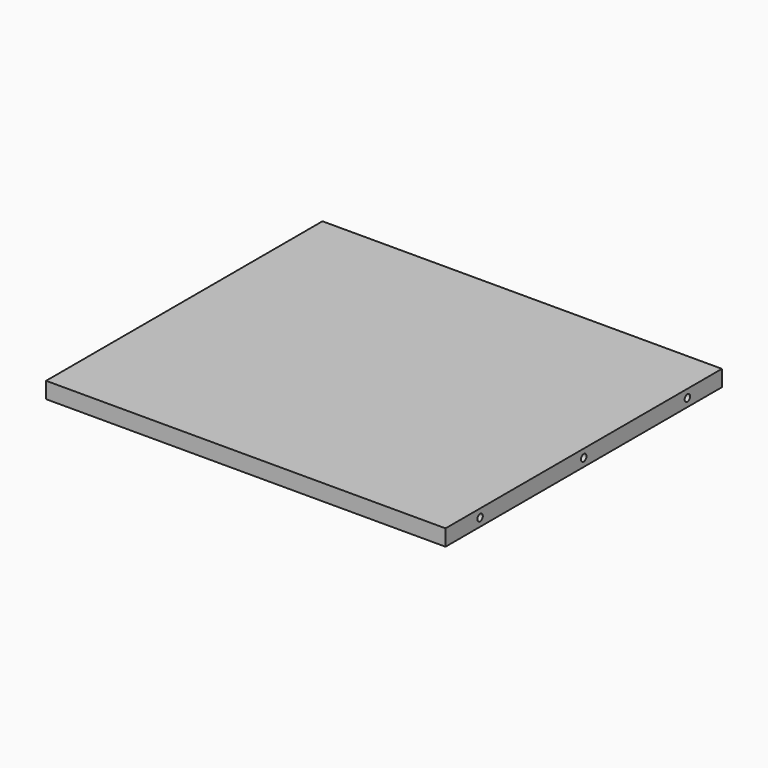
from build123d import *

# Parameters (mm, degrees)
F0_W     = 469.9
F0_H     = 406.4
F1_DEPTH = 19.05
F3_D     = 15.0114
F3_DEPTH = 14.224
F3_TIP   = 4.5098795482
F5_D     = 8.001
F5_DEPTH = 25.4
F5_TIP   = 2.4037429064
F7_D     = 8.001
F7_DEPTH = 25.4
F7_TIP   = 2.4037429064
F9_D     = 8.001
F9_DEPTH = 25.4
F9_TIP   = 2.4037429064


with BuildPart() as f1:
    # F0 (on Top) → F1 (new body)
    with BuildSketch(Plane.XY):
        Rectangle(F0_W, F0_H)
    extrude(amount=F1_DEPTH)

    # F3
    with Locations(Plane(origin=(0, 0, 0), x_dir=(1, 0, 0), z_dir=(0, 0, -1))):
        with Locations((-211.074, 152.4), (-211.074, 0), (-211.074, -152.4), (-184.15, -179.324), (0, -179.324), (184.15, -179.324), (211.074, -152.4), (211.074, 0), (211.074, 152.4)):
            Hole(F3_D / 2, depth=F3_DEPTH)
            with Locations((0, 0, -(F3_DEPTH + F3_TIP / 2))):  # 118° drill point
                Cone(0, F3_D / 2, F3_TIP, mode=Mode.SUBTRACT)

    # F5
    with Locations(Plane.YZ.offset(234.95)):
        with Locations((-152.4, 9.525), (0, 9.525), (152.4, 9.525)):
            Hole(F5_D / 2, depth=F5_DEPTH)
            with Locations((0, 0, -(F5_DEPTH + F5_TIP / 2))):  # 118° drill point
                Cone(0, F5_D / 2, F5_TIP, mode=Mode.SUBTRACT)

    # F7
    with Locations(Plane(origin=(0, 203.2, 0), x_dir=(-1, 0, 0), z_dir=(0, 1, 0))):
        with Locations((-184.15, 9.525), (0, 9.525), (184.15, 9.525)):
            Hole(F7_D / 2, depth=F7_DEPTH)
            with Locations((0, 0, -(F7_DEPTH + F7_TIP / 2))):  # 118° drill point
                Cone(0, F7_D / 2, F7_TIP, mode=Mode.SUBTRACT)

    # F9
    with Locations(Plane(origin=(-234.95, 0, 0), x_dir=(0, -1, 0), z_dir=(-1, 0, 0))):
        with Locations((-152.4, 9.525), (0, 9.525), (152.4, 9.525)):
            Hole(F9_D / 2, depth=F9_DEPTH)
            with Locations((0, 0, -(F9_DEPTH + F9_TIP / 2))):  # 118° drill point
                Cone(0, F9_D / 2, F9_TIP, mode=Mode.SUBTRACT)


solid = f1.part
